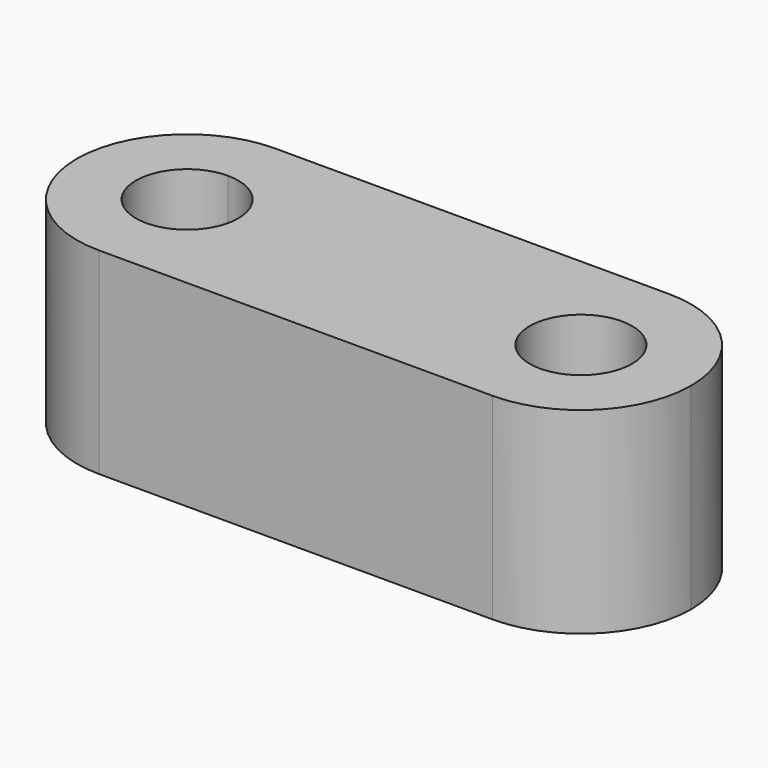
from build123d import *

# Parameters (mm, degrees)
F1_R     = 2.6
F2_DEPTH = 10


with BuildPart() as f2:
    # F1 (on Top) → F2 (new body)
    with BuildSketch(Plane.XY):
        with BuildLine():
            ThreePointArc((-10, -5.6), (-6.0402020254, -3.9597979746), (-4.4, 0))
            ThreePointArc((-4.4, 0), (-6.0402020254, 3.9597979746), (-10, 5.6))
            Line((-10, 5.6), (-10, 2.6))
            ThreePointArc((-10, 2.6), (-8.1615223689, 1.8384776311), (-7.4, 0))
            ThreePointArc((-7.4, 0), (-8.1615223689, -1.8384776311), (-10, -2.6))
            Line((-10, -2.6), (-10, -5.6))
        make_face()
        with BuildLine():
            Line((-10, 2.6), (-10, 5.6))
            ThreePointArc((-10, 5.6), (-15.6, 0), (-10, -5.6))
            Line((-10, -5.6), (-10, -2.6))
            ThreePointArc((-10, -2.6), (-12.6, 0), (-10, 2.6))
        make_face()
        with BuildLine():
            ThreePointArc((-10, 5.6), (-6.0402020254, 3.9597979746), (-4.4, 0))
            ThreePointArc((-4.4, 0), (-6.0402020254, -3.9597979746), (-10, -5.6))
            Line((-10, -5.6), (0, -5.6))
            Line((0, -5.6), (0, 0))
            Line((0, 0), (0, 5.6))
            Line((0, 5.6), (-10, 5.6))
        make_face()
        with BuildLine():
            Line((10, 5.6), (0, 5.6))
            Line((0, 5.6), (0, 0))
            Line((0, 0), (0, -5.6))
            Line((0, -5.6), (10, -5.6))
            ThreePointArc((10, -5.6), (4.4, 0), (10, 5.6))
        make_face()
        with BuildLine():
            ThreePointArc((15.6, 0), (13.9597979746, 3.9597979746), (10, 5.6))
            ThreePointArc((10, 5.6), (4.4, 0), (10, -5.6))
            ThreePointArc((10, -5.6), (13.9597979746, -3.9597979746), (15.6, 0))
        make_face()
        with Locations((10, 0)):
            Circle(F1_R, mode=Mode.SUBTRACT)
    extrude(amount=F2_DEPTH)


solid = f2.part
